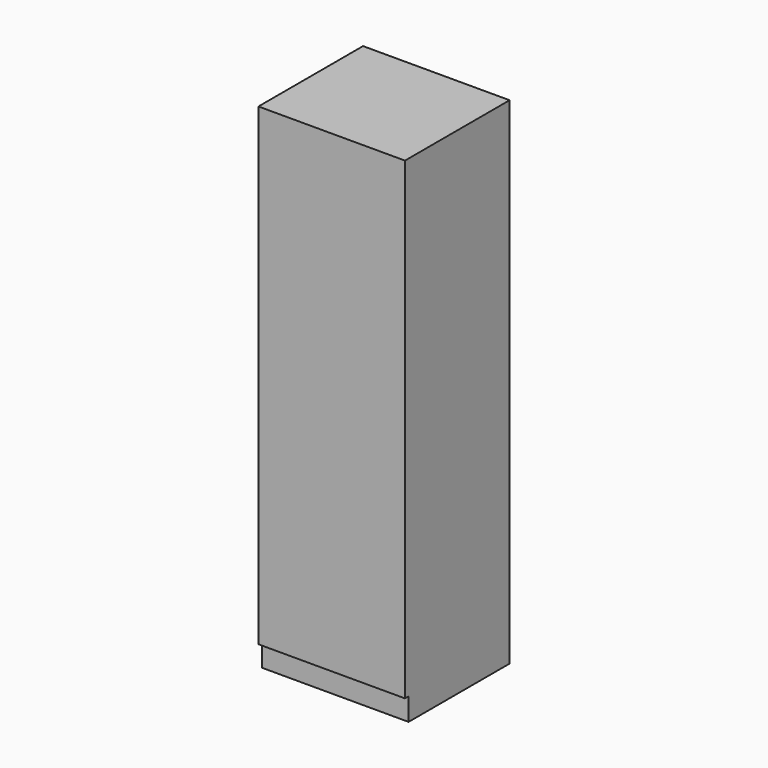
from build123d import *

# Parameters (mm, degrees)
F0_W     = 650
F0_H     = 580
F1_DEPTH = 2200
F2_W     = 135.397307
F2_H     = 183.963738
F3_DEPTH = 650.001


with BuildPart() as f1:
    # F0 (on Top) → F1 (new body)
    with BuildSketch(Plane.XY):
        with Locations((-325, 290)):
            Rectangle(F0_W, F0_H)
    extrude(amount=F1_DEPTH)

    # F2 (on face) → F3 (cut, through all)
    with BuildSketch(Plane(origin=(-650, 0, 0), x_dir=(0, -1, 0), z_dir=(-1, 0, 0))):
        with Locations((47.698653, 8.018131)):
            Rectangle(F2_W, F2_H)
    extrude(amount=-F3_DEPTH, mode=Mode.SUBTRACT)


solid = f1.part
